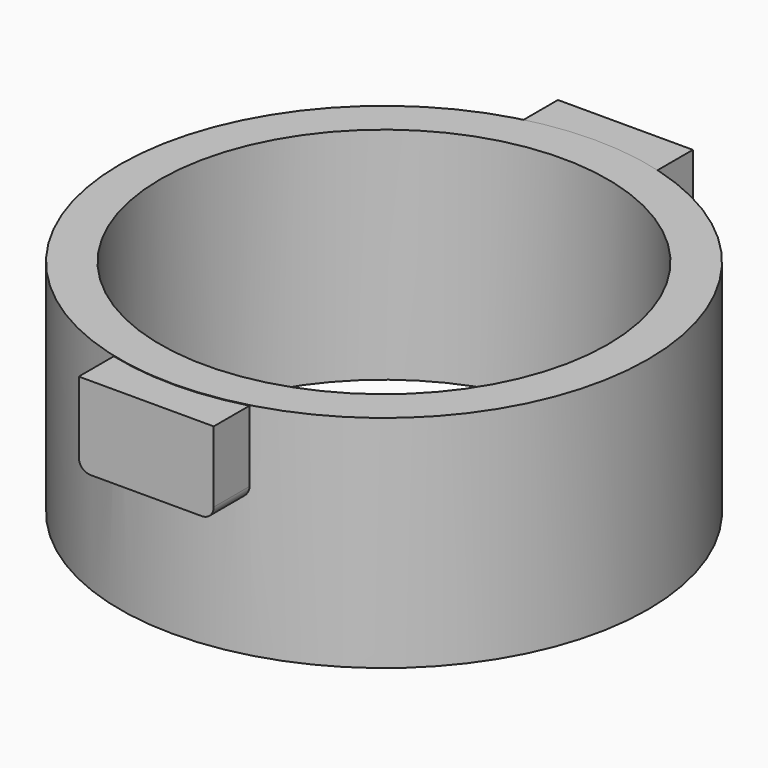
from build123d import *

# Parameters (mm, degrees)
F0_R     = 11.15
F0_R_2   = 9.45
F1_DEPTH = 9.3
F3_W     = 5.7
F3_H     = 3.5
F4_DEPTH = 1.5
F5_R     = 0.5


with BuildPart() as f1:
    # F0 (on Top) → F1 (new body)
    with BuildSketch(Plane.XY):
        Circle(F0_R)
        Circle(F0_R_2, mode=Mode.SUBTRACT)
    extrude(amount=F1_DEPTH)

    # F3 (on offset) → F4 (join, symmetric)
    with BuildSketch(Plane.XZ.offset(11.15)):
        with Locations((0.0768768184, 7.5275215786)):
            Rectangle(F3_W, F3_H)
    extrude(amount=F4_DEPTH, both=True)

    # F5
    f5_edges = [f1.edges().sort_by_distance(p)[0] for p in [
        (-2.773123, -11.724821, 5.777522),
        (2.926877, -11.704496, 5.777522),
    ]]
    fillet(f5_edges, radius=F5_R)

    # F6: F1 across plane


with BuildPart() as f1_1:
    add(f1.part)
    add(f1.part.mirror(Plane.XZ))


solid = f1_1.part
